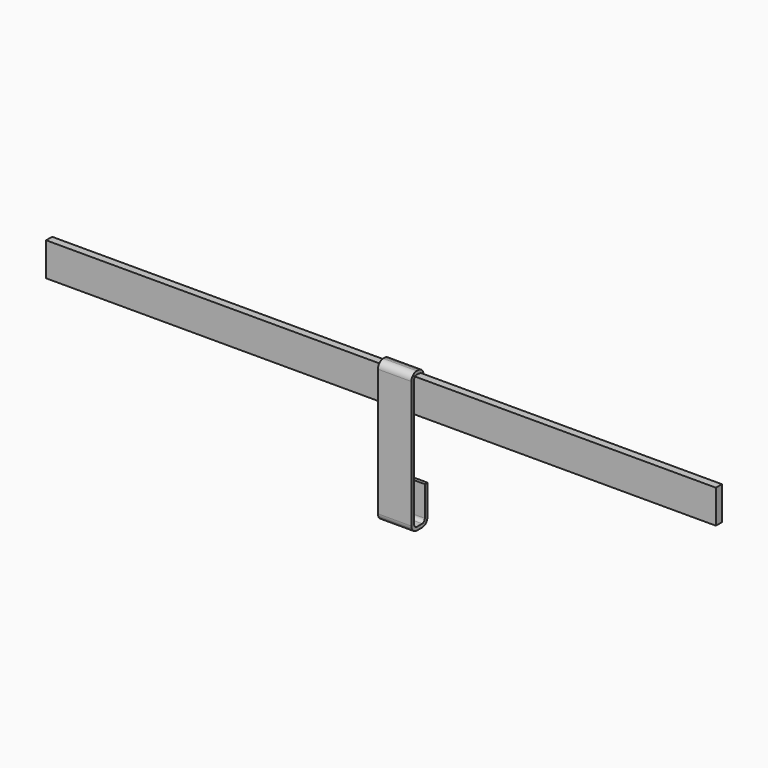
from build123d import *

# Parameters (mm, degrees)
F1_DEPTH      = 20
F2_R          = 4
F3_R          = 2
F4_W          = 4.5
F4_H          = 20
F5_DEPTH      = 200
F5_DEPTH_BACK = 200


with BuildPart() as f1:
    # F0 (on Right) → F1 (new body)
    with BuildSketch(Plane.YZ):
        Polygon((0, -80), (0, 0), (5, 0), (5, -20), (7, -20), (7, 2), (-2, 2), (-2, -82), (10, -82), (10, -60), (8, -60), (8, -80), align=None)
    extrude(amount=F1_DEPTH)

    # F2
    f2_edges = [f1.edges().sort_by_distance(p)[0] for p in [
        (10, -2, 2),
        (10, 7, 2),
        (10, -2, -82),
        (10, 10, -82),
    ]]
    fillet(f2_edges, radius=F2_R)

    # F3
    f3_edges = [f1.edges().sort_by_distance(p)[0] for p in [
        (10, 8, -80),
        (10, 5, 0),
        (10, 0, 0),
        (10, 0, -80),
    ]]
    fillet(f3_edges, radius=F3_R)


with BuildPart() as f5:
    # F4 (on Right) → F5 (new body, two sides)
    with BuildSketch(Plane.YZ) as f5_sk:
        with Locations((2.533037, -10.188935)):
            Rectangle(F4_W, F4_H)
    extrude(amount=F5_DEPTH)
    extrude(f5_sk.sketch, amount=-F5_DEPTH_BACK)


solid = Compound([f1.part, f5.part])
